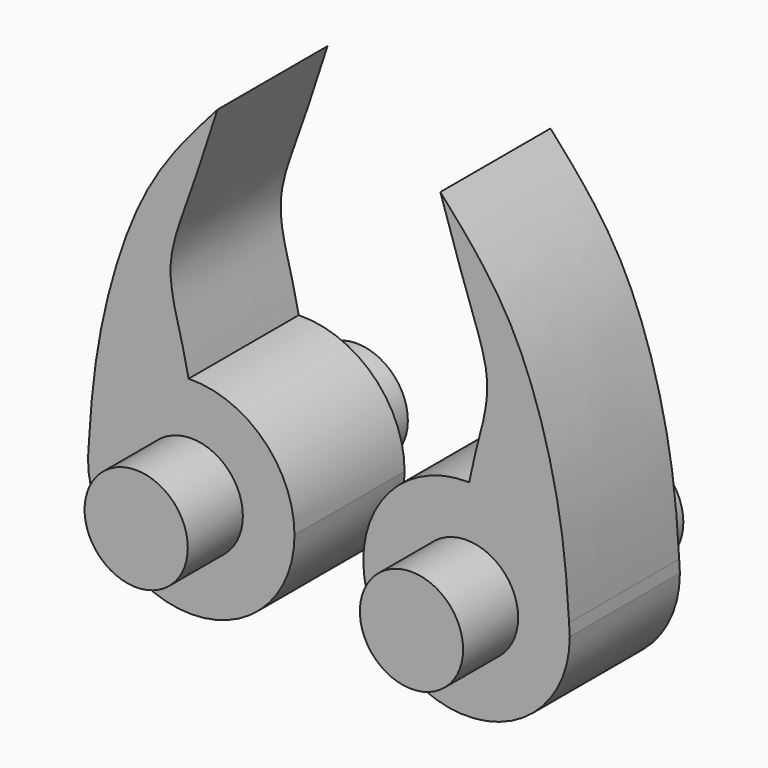
from build123d import *

# Parameters (mm, degrees)
F0_R          = 7.5
F1_DEPTH      = 20
F3_DEPTH      = 30
F2_R          = 7.4623374199
F4_DEPTH      = 25
F4_DEPTH_BACK = 10
F5_DEPTH      = 30
F6_DEPTH      = 25
F6_DEPTH_BACK = 10


with BuildPart() as f1:
    # F0 (on Front) → F1 (new body)
    with BuildSketch(Plane.XZ):
        with BuildLine():
            ThreePointArc((-54.8961763386, 1.7617975164), (-50.1065741182, 11.0840948929), (-40.3829191544, 14.9951116342))
            add(Edge.make_bspline(
                [(-36.1976698041, 50.7730282843), (-37.7009093441, 46.1154933355), (-40.4381626311, 37.6342591201), (-44.0181723105, 28.6082070233), (-41.4534466343, 20.0703507947), (-40.7085925845, 16.5444741892), (-40.3829191544, 14.9951116342)],
                knots=[0, 0, 0, 0, 0.3125389838, 0.5693061929, 0.8113231168, 1, 1, 1, 1], degree=3))
            add(Edge.make_bspline(
                [(-54.8961763386, 1.7617975164), (-54.6289154177, 6.200226793), (-53.8445133009, 16.72844038), (-47.8365264853, 37.6549899489), (-39.9178996464, 46.5799946364), (-36.1976698041, 50.7730282843)],
                knots=[0.0363153169, 0.0363153169, 0.0363153169, 0.0363153169, 0.3103841732, 0.6760133505, 1, 1, 1, 1], degree=3))
        make_face()
        with BuildLine():
            ThreePointArc((-55, 0), (-40, -15), (-25, 0))
            ThreePointArc((-25, 0), (-29.5296558632, 10.7411309301), (-40.3829191544, 14.9951116342))
            ThreePointArc((-40.3829191544, 14.9951116342), (-50.1065741182, 11.0840948929), (-54.8961763386, 1.7617975164))
            add(Edge.make_bspline(
                [(-55, 0), (-54.9657947872, 0.5868431554), (-54.9315895744, 1.1736863108), (-54.8961763386, 1.7617975164)],
                knots=[0, 0, 0, 0, 0.0363153169, 0.0363153169, 0.0363153169, 0.0363153169], degree=3))
        make_face()
        with Locations((-40, 0)):
            Circle(F0_R, mode=Mode.SUBTRACT)
    extrude(amount=F1_DEPTH)

    # F0 (on Front) → F3 (join)
    with BuildSketch(Plane.XZ):
        with Locations((-40, 0)):
            Circle(F0_R)
    extrude(amount=F3_DEPTH)

    # F2 (on Front) → F4 (join, two sides)
    with BuildSketch(Plane.XZ) as f4_sk:
        with Locations((-39.9908795953, 0)):
            Circle(F2_R)
    extrude(amount=F4_DEPTH)
    extrude(f4_sk.sketch, amount=-F4_DEPTH_BACK)


with BuildPart() as f1b:
    # F0 (on Front) → F1, piece 2 (new body)
    with BuildSketch(Plane.XZ):
        with BuildLine():
            ThreePointArc((14.8961763386, 1.7617975164), (10.1065741182, 11.0840948929), (0.3829191544, 14.9951116342))
            ThreePointArc((0.3829191544, 14.9951116342), (-10.7411309301, -10.4703441368), (15, 0))
            add(Edge.make_bspline(
                [(15, 0), (14.9657947872, 0.5868431554), (14.9315895744, 1.1736863108), (14.8961763386, 1.7617975164)],
                knots=[0, 0, 0, 0, 0.0363153169, 0.0363153169, 0.0363153169, 0.0363153169], degree=3))
        make_face()
        Circle(F0_R, mode=Mode.SUBTRACT)
        with BuildLine():
            add(Edge.make_bspline(
                [(-3.8023301959, 50.7730282843), (-2.2990906559, 46.1154933355), (0.4381626311, 37.6342591201), (4.0181723105, 28.6082070233), (1.4534466343, 20.0703507947), (0.7085925845, 16.5444741892), (0.3829191544, 14.9951116342)],
                knots=[0, 0, 0, 0, 0.3125389838, 0.5693061929, 0.8113231168, 1, 1, 1, 1], degree=3))
            ThreePointArc((0.3829191544, 14.9951116342), (10.1065741182, 11.0840948929), (14.8961763386, 1.7617975164))
            add(Edge.make_bspline(
                [(14.8961763386, 1.7617975164), (14.6289154177, 6.200226793), (13.8445133009, 16.72844038), (7.8365264853, 37.6549899489), (-0.0821003536, 46.5799946364), (-3.8023301959, 50.7730282843)],
                knots=[0.0363153169, 0.0363153169, 0.0363153169, 0.0363153169, 0.3103841732, 0.6760133505, 1, 1, 1, 1], degree=3))
        make_face()
    extrude(amount=F1_DEPTH)

    # F0 (on Front) → F5 (join)
    with BuildSketch(Plane.XZ):
        Circle(F0_R)
    extrude(amount=F5_DEPTH)

    # F0 (on Front) → F6 (join, two sides)
    with BuildSketch(Plane.XZ) as f6_sk:
        Circle(F0_R)
    extrude(amount=F6_DEPTH)
    extrude(f6_sk.sketch, amount=-F6_DEPTH_BACK)


solid = Compound([f1.part, f1b.part])
